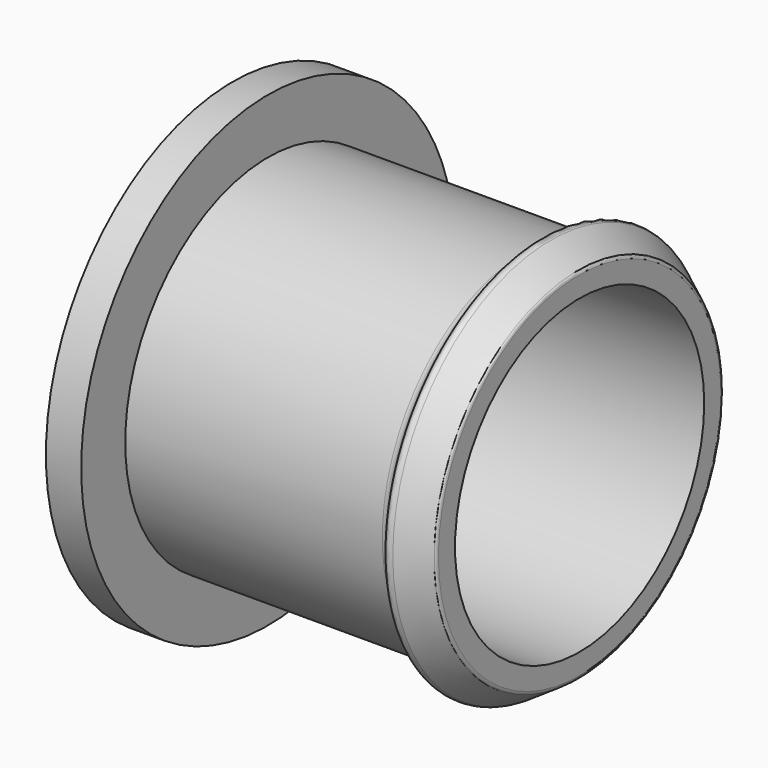
from build123d import *


with BuildPart() as f1:
    # F0 (on Top) → F1 (revolve)
    with BuildSketch(Plane.XY):
        with BuildLine():
            Line((1.0795, 14.2875), (-1.0795, 14.2875))
            Line((-1.0795, 14.2875), (-1.0795, 9.525))
            Line((-1.0795, 9.525), (1.0795, 9.525))
            Line((1.0795, 9.525), (20.1295, 9.525))
            Line((20.1295, 9.525), (20.1295, 10.797701))
            ThreePointArc((20.1295, 10.797701), (20.10202, 10.907294), (20.026081, 10.990955))
            Line((20.026081, 10.990955), (18.378363, 12.089584))
            ThreePointArc((18.378363, 12.089584), (18.092305, 12.146192), (17.850004, 11.983947))
            Line((17.850004, 11.983947), (17.330457, 11.204732))
            ThreePointArc((17.330457, 11.204732), (17.101739, 10.997127), (16.802127, 10.922))
            Line((16.802127, 10.922), (1.0795, 10.922))
            Line((1.0795, 10.922), (1.0795, 14.2875))
        make_face()
    revolve(axis=Axis((9.354087, 0, 0), (1, 0, 0)))


solid = f1.part
